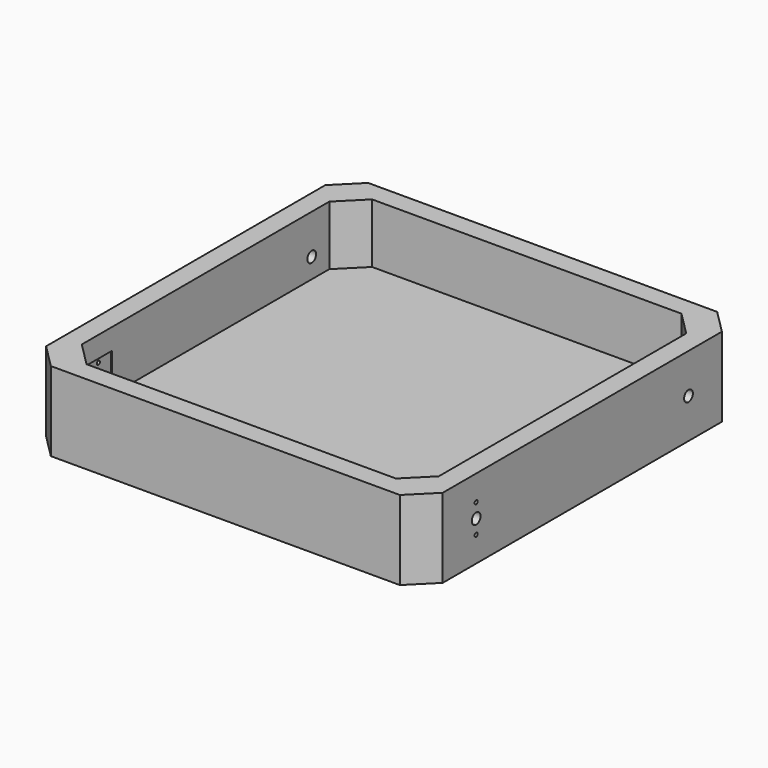
from build123d import *

# Parameters (mm, degrees)
F0_W      = 127
F0_H      = 127
F1_DEPTH  = 25.4
F2_T      = -6.35
F3_SIZE   = 7.62
F5_DEPTH  = 127.001
F6_W      = 10
F6_H      = 12
F7_DEPTH  = 0.3175
F8_W      = 10
F8_H      = 12
F9_DEPTH  = 0.3175
F11_DEPTH = 127.001


with BuildPart() as f1:
    # F0 (on Top) → F1 (new body)
    with BuildSketch(Plane.XY):
        Rectangle(F0_W, F0_H)
    extrude(amount=F1_DEPTH)

    # F2
    f2_openings = [f1.faces().sort_by_distance(p)[0] for p in [
        (0, 0, 25.4),
    ]]
    offset(amount=F2_T, openings=f2_openings)

    # F3
    f3_edges = [f1.edges().sort_by_distance(p)[0] for p in [
        (-63.5, -63.5, 12.7),
        (63.5, -63.5, 12.7),
        (63.5, 63.5, 12.7),
        (-63.5, 63.5, 12.7),
        (-57.15, 57.15, 15.875),
        (57.15, 57.15, 15.875),
        (57.15, -57.15, 15.875),
        (-57.15, -57.15, 15.875),
    ]]
    chamfer(f3_edges, length=F3_SIZE)

    # F4 (on face) → F5 (cut, through all)
    with BuildSketch(Plane(origin=(-63.5, 0, 0), x_dir=(0, -1, 0), z_dir=(-1, 0, 0))):
        with BuildLine():
            ThreePointArc((42.4942, 8.753), (41.8692, 8.128), (42.4942, 7.503))
            Line((42.4942, 7.503), (42.4942, 8.753))
        make_face()
        with BuildLine():
            ThreePointArc((42.4942, 17.897), (41.8692, 17.272), (42.4942, 16.647))
            Line((42.4942, 16.647), (42.4942, 17.897))
        make_face()
        with BuildLine():
            Line((42.4942, 17.897), (42.4942, 16.647))
            ThreePointArc((42.4942, 16.647), (42.9361417382, 16.8300582618), (43.1192, 17.272))
            ThreePointArc((43.1192, 17.272), (42.9361417382, 17.7139417382), (42.4942, 17.897))
        make_face()
        with BuildLine():
            ThreePointArc((42.4942, 14.45), (40.7442, 12.7), (42.4942, 10.95))
            Line((42.4942, 10.95), (42.4942, 12.7))
            Line((42.4942, 12.7), (42.4942, 14.45))
        make_face()
        with BuildLine():
            Line((42.4942, 12.7), (42.4942, 10.95))
            ThreePointArc((42.4942, 10.95), (43.7316368671, 11.4625631329), (44.2442, 12.7))
            Line((44.2442, 12.7), (42.4942, 12.7))
        make_face()
        with BuildLine():
            Line((42.4942, 8.753), (42.4942, 7.503))
            ThreePointArc((42.4942, 7.503), (42.9361417382, 7.6860582618), (43.1192, 8.128))
            ThreePointArc((43.1192, 8.128), (42.9361417382, 8.5699417382), (42.4942, 8.753))
        make_face()
        with BuildLine():
            Line((42.4942, 14.45), (42.4942, 12.7))
            Line((42.4942, 12.7), (44.2442, 12.7))
            ThreePointArc((44.2442, 12.7), (43.7316368671, 13.9374368671), (42.4942, 14.45))
        make_face()
    extrude(amount=-F5_DEPTH, mode=Mode.SUBTRACT)

    # F6 (on face) → F7 (cut)
    with BuildSketch(Plane.YZ.offset(-57.15)):
        with Locations((-42.4942, 12.7)):
            Rectangle(F6_W, F6_H)
    extrude(amount=-F7_DEPTH, mode=Mode.SUBTRACT)

    # F8 (on face) → F9 (cut)
    with BuildSketch(Plane(origin=(57.15, 0, 0), x_dir=(0, -1, 0), z_dir=(-1, 0, 0))):
        with Locations((42.4942, 12.7)):
            Rectangle(F8_W, F8_H)
    extrude(amount=-F9_DEPTH, mode=Mode.SUBTRACT)

    # F10 (on face) → F11 (cut, through all)
    with BuildSketch(Plane(origin=(-63.5, 0, 0), x_dir=(0, -1, 0), z_dir=(-1, 0, 0))):
        with BuildLine():
            ThreePointArc((-42.4942, 14.45), (-44.2442, 12.7), (-42.4942, 10.95))
            Line((-42.4942, 10.95), (-42.4942, 14.45))
        make_face()
        with BuildLine():
            Line((-42.4942, 14.45), (-42.4942, 10.95))
            ThreePointArc((-42.4942, 10.95), (-41.2567631329, 11.4625631329), (-40.7442, 12.7))
            ThreePointArc((-40.7442, 12.7), (-41.2567631329, 13.9374368671), (-42.4942, 14.45))
        make_face()
    extrude(amount=-F11_DEPTH, mode=Mode.SUBTRACT)


solid = f1.part
